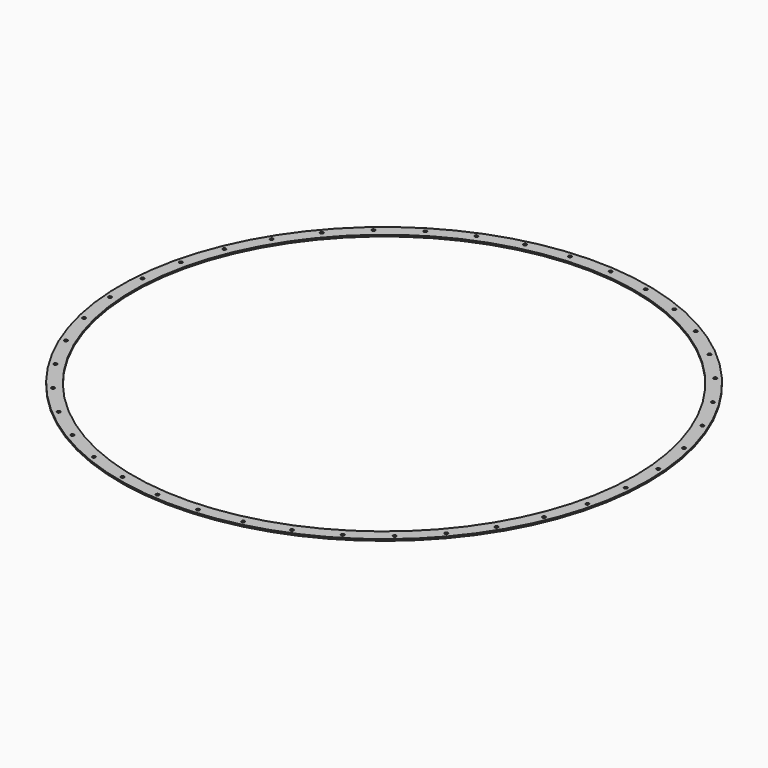
from build123d import *

# Parameters (mm, degrees)
F0_R     = 1042.9875
F0_R_2   = 6.35
F1_DEPTH = 6.35


with BuildPart() as f1:
    # F0 (on Top) → F1 (new body)
    with BuildSketch(Plane.XY):
        Circle(F0_R)
        with Locations((-534.1764076374, -871.6966720274)):
            Circle(F0_R_2, mode=Mode.SUBTRACT)
        with Locations((-871.6966720274, -534.1764076374)):
            Circle(F0_R_2, mode=Mode.SUBTRACT)
        with Locations((-663.9632122104, -777.4010389312)):
            Circle(F0_R_2, mode=Mode.SUBTRACT)
        with Locations((-777.4010389312, -663.9632122104)):
            Circle(F0_R_2, mode=Mode.SUBTRACT)
        with Locations((-391.2364070784, -944.5282400629)):
            Circle(F0_R_2, mode=Mode.SUBTRACT)
        with Locations((-238.6628677381, -994.1023881186)):
            Circle(F0_R_2, mode=Mode.SUBTRACT)
        with Locations((-80.2126565174, -1019.1984361421)):
            Circle(F0_R_2, mode=Mode.SUBTRACT)
        with Locations((-944.5282400629, -391.2364070784)):
            Circle(F0_R_2, mode=Mode.SUBTRACT)
        with Locations((-994.1023881186, -238.6628677381)):
            Circle(F0_R_2, mode=Mode.SUBTRACT)
        with Locations((-1019.1984361421, -80.2126565174)):
            Circle(F0_R_2, mode=Mode.SUBTRACT)
        with Locations((80.2126565174, -1019.1984361421)):
            Circle(F0_R_2, mode=Mode.SUBTRACT)
        with Locations((238.6628677381, -994.1023881186)):
            Circle(F0_R_2, mode=Mode.SUBTRACT)
        with Locations((391.2364070784, -944.5282400629)):
            Circle(F0_R_2, mode=Mode.SUBTRACT)
        with Locations((534.1764076374, -871.6966720274)):
            Circle(F0_R_2, mode=Mode.SUBTRACT)
        with Locations((663.9632122104, -777.4010389312)):
            Circle(F0_R_2, mode=Mode.SUBTRACT)
        with Locations((777.4010389312, -663.9632122104)):
            Circle(F0_R_2, mode=Mode.SUBTRACT)
        with Locations((871.6966720274, -534.1764076374)):
            Circle(F0_R_2, mode=Mode.SUBTRACT)
        with Locations((944.5282400629, -391.2364070784)):
            Circle(F0_R_2, mode=Mode.SUBTRACT)
        with Locations((994.1023881186, -238.6628677381)):
            Circle(F0_R_2, mode=Mode.SUBTRACT)
        with BuildLine():
            ThreePointArc((1025.5484361421, -80.2126565174), (1018.949136312, -86.5577608975), (1012.8680110729, -79.7144412595))
            ThreePointArc((1012.8680110729, -79.7144412595), (1019.4477359721, -73.8675521372), (1025.5484361421, -80.2126565174))
        make_face(mode=Mode.SUBTRACT)
        with Locations((-1019.1984361421, 80.2126565174)):
            Circle(F0_R_2, mode=Mode.SUBTRACT)
        with Locations((-994.1023881186, 238.6628677381)):
            Circle(F0_R_2, mode=Mode.SUBTRACT)
        with Locations((-944.5282400629, 391.2364070784)):
            Circle(F0_R_2, mode=Mode.SUBTRACT)
        with Locations((-871.6966720274, 534.1764076374)):
            Circle(F0_R_2, mode=Mode.SUBTRACT)
        with Locations((-777.4010389312, 663.9632122104)):
            Circle(F0_R_2, mode=Mode.SUBTRACT)
        with Locations((-663.9632122104, 777.4010389312)):
            Circle(F0_R_2, mode=Mode.SUBTRACT)
        with Locations((-534.1764076374, 871.6966720274)):
            Circle(F0_R_2, mode=Mode.SUBTRACT)
        with Locations((-391.2364070784, 944.5282400629)):
            Circle(F0_R_2, mode=Mode.SUBTRACT)
        with Locations((-238.6628677381, 994.1023881186)):
            Circle(F0_R_2, mode=Mode.SUBTRACT)
        with Locations((-80.2126565174, 1019.1984361421)):
            Circle(F0_R_2, mode=Mode.SUBTRACT)
        with BuildLine():
            ThreePointArc((988.3376139297, 77.7838571352), (990.6294213476, 38.9219359697), (991.39375, 0))
            ThreePointArc((991.39375, 0), (990.6294213476, -38.9219359697), (988.3376139297, -77.7838571352))
            ThreePointArc((988.3376139297, -77.7838571352), (-991.39375, 0), (988.3376139297, 77.7838571352))
        make_face(mode=Mode.SUBTRACT)
        with BuildLine():
            ThreePointArc((1025.5484361421, 80.2126565174), (1019.4477359721, 73.8675521372), (1012.8680110729, 79.7144412595))
            ThreePointArc((1012.8680110729, 79.7144412595), (1018.949136312, 86.5577608975), (1025.5484361421, 80.2126565174))
        make_face(mode=Mode.SUBTRACT)
        with Locations((994.1023881186, 238.6628677381)):
            Circle(F0_R_2, mode=Mode.SUBTRACT)
        with Locations((944.5282400629, 391.2364070784)):
            Circle(F0_R_2, mode=Mode.SUBTRACT)
        with Locations((80.2126565174, 1019.1984361421)):
            Circle(F0_R_2, mode=Mode.SUBTRACT)
        with Locations((238.6628677381, 994.1023881186)):
            Circle(F0_R_2, mode=Mode.SUBTRACT)
        with Locations((391.2364070784, 944.5282400629)):
            Circle(F0_R_2, mode=Mode.SUBTRACT)
        with Locations((777.4010389312, 663.9632122104)):
            Circle(F0_R_2, mode=Mode.SUBTRACT)
        with Locations((663.9632122104, 777.4010389312)):
            Circle(F0_R_2, mode=Mode.SUBTRACT)
        with Locations((871.6966720274, 534.1764076374)):
            Circle(F0_R_2, mode=Mode.SUBTRACT)
        with Locations((534.1764076374, 871.6966720274)):
            Circle(F0_R_2, mode=Mode.SUBTRACT)
    extrude(amount=F1_DEPTH)


solid = f1.part
